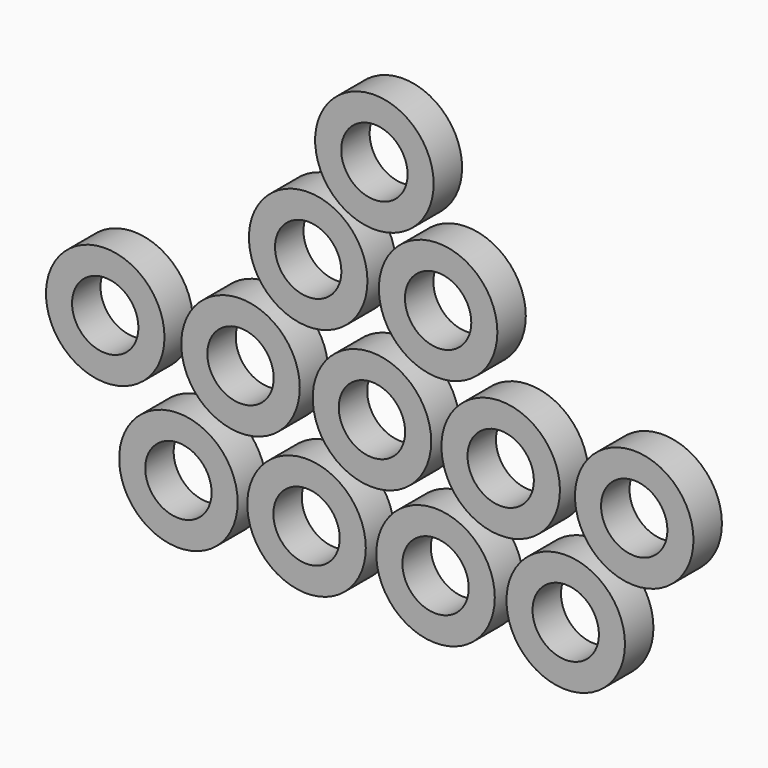
from build123d import *

# Parameters (mm, degrees)
F0_R     = 2.5
F0_R_2   = 1.4
F1_DEPTH = 1.5


with BuildPart() as f1:
    # F0 (on Front) → F1 (new body)
    with BuildSketch(Plane.XZ):
        with Locations((-13.936584, 5.138153)):
            Circle(F0_R)
        with Locations((-13.936584, 5.138153)):
            Circle(F0_R_2, mode=Mode.SUBTRACT)
        with Locations((-8.228856, 5.120998)):
            Circle(F0_R)
        with Locations((-8.228856, 5.120998)):
            Circle(F0_R_2, mode=Mode.SUBTRACT)
        with Locations((-5.373315, 10.004755)):
            Circle(F0_R)
        with Locations((-5.373315, 10.004755)):
            Circle(F0_R_2, mode=Mode.SUBTRACT)
        with Locations((-2.580128, 14.524869)):
            Circle(F0_R)
        with Locations((-2.580128, 14.524869)):
            Circle(F0_R_2, mode=Mode.SUBTRACT)
        with Locations((0.108057, 9.890475)):
            Circle(F0_R)
        with Locations((0.108057, 9.890475)):
            Circle(F0_R_2, mode=Mode.SUBTRACT)
        with Locations((-2.682797, 4.922376)):
            Circle(F0_R)
        with Locations((-2.682797, 4.922376)):
            Circle(F0_R_2, mode=Mode.SUBTRACT)
        with Locations((-10.848478, 0.012458)):
            Circle(F0_R)
        with Locations((-10.848478, 0.012458)):
            Circle(F0_R_2, mode=Mode.SUBTRACT)
        with Locations((-5.442839, 0.073152)):
            Circle(F0_R)
        with Locations((-5.442839, 0.073152)):
            Circle(F0_R_2, mode=Mode.SUBTRACT)
        Circle(F0_R)
        Circle(F0_R_2, mode=Mode.SUBTRACT)
        with Locations((2.748309, 4.883737)):
            Circle(F0_R)
        with Locations((2.748309, 4.883737)):
            Circle(F0_R_2, mode=Mode.SUBTRACT)
        with Locations((8.38239, 4.867232)):
            Circle(F0_R)
        with Locations((8.38239, 4.867232)):
            Circle(F0_R_2, mode=Mode.SUBTRACT)
        with Locations((5.492167, 0.05845)):
            Circle(F0_R)
        with Locations((5.492167, 0.05845)):
            Circle(F0_R_2, mode=Mode.SUBTRACT)
    extrude(amount=F1_DEPTH)


solid = f1.part
